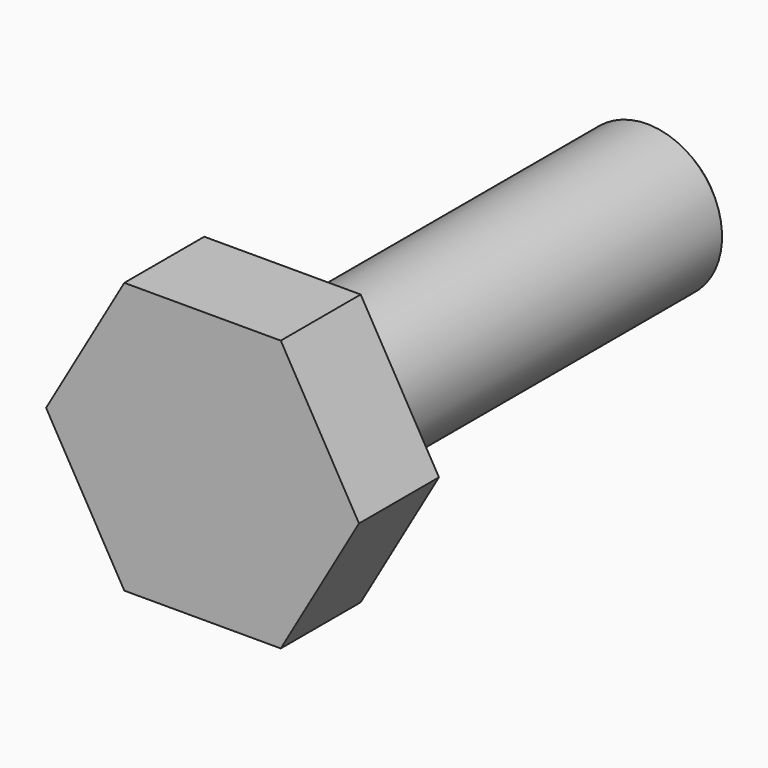
from build123d import *

# Parameters (mm, degrees)
F1_DEPTH = 4.064
F2_R     = 3.048
F3_DEPTH = 18.796
F4_SIZE  = 0.254


with BuildPart() as f1:
    # F0 (on Front) → F1 (new body)
    with BuildSketch(Plane.XZ):
        Polygon((3.182239, 5.5118), (-3.182239, 5.5118), (-6.364478, 0), (-3.182239, -5.5118), (3.182239, -5.5118), (6.364478, 0), align=None)
    extrude(amount=F1_DEPTH)

    # F2 (on face) → F3 (join)
    with BuildSketch(Plane(origin=(0, 0, 0), x_dir=(-1, 0, 0), z_dir=(0, 1, 0))):
        Circle(F2_R)
    extrude(amount=F3_DEPTH)

    # F4
    f4_edges = [f1.edges().sort_by_distance(p)[0] for p in [
        (3.048, 18.796, 0),
    ]]
    chamfer(f4_edges, length=F4_SIZE)


solid = f1.part
